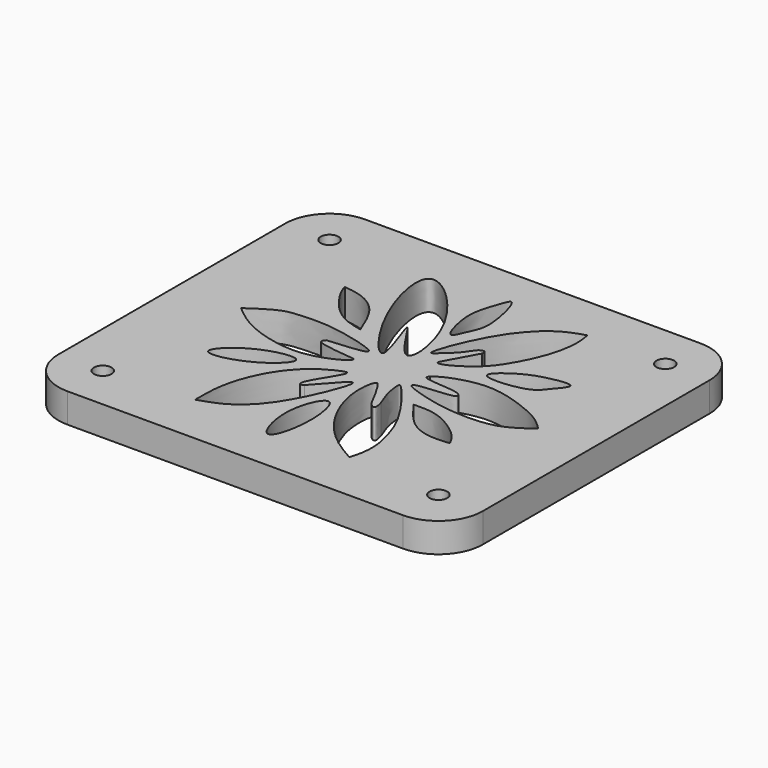
from build123d import *

# Parameters (mm, degrees)
F0_R     = 1.5
F1_DEPTH = 5


with BuildPart() as f1:
    # F0 (on Top) → F1 (new body)
    with BuildSketch(Plane.XY):
        with BuildLine():
            ThreePointArc((36.115, 24.13), (33.9065851301, 29.4615851301), (28.575, 31.67))
            Line((28.575, 31.67), (-28.575, 31.67))
            ThreePointArc((-28.575, 31.67), (-33.9065851301, 29.4615851301), (-36.115, 24.13))
            Line((-36.115, 24.13), (-36.115, -24.13))
            ThreePointArc((-36.115, -24.13), (-33.9065851301, -29.4615851301), (-28.575, -31.67))
            Line((-28.575, -31.67), (28.575, -31.67))
            ThreePointArc((28.575, -31.67), (33.9065851301, -29.4615851301), (36.115, -24.13))
            Line((36.115, -24.13), (36.115, 24.13))
        make_face()
        with Locations((-28.575, -24.13)):
            Circle(F0_R, mode=Mode.SUBTRACT)
        with BuildLine():
            add(Edge.make_bspline(
                [(0.333543052, -12.2452741489), (-0.6181356631, -12.1674242783), (-3.2376800627, -17.906042952), (0.117558052, -27.9051417086), (2.5795510635, -18.3989907918), (1.2988482223, -12.3242387), (0.333543052, -12.2452741489)],
                knots=[0, 0, 0, 0, 0.2438867486, 0.5028377842, 0.7526211991, 1, 1, 1, 1], degree=3))
        make_face(mode=Mode.SUBTRACT)
        with BuildLine():
            add(Edge.make_bspline(
                [(-21.1746506393, -10.9795937315), (-21.613699856, -10.1671618246), (-17.1712523155, -5.7464608987), (-7.8180209375, -4.3226729466), (-14.4182232131, -10.6034780406), (-20.7262114294, -11.8094012077), (-21.1746506393, -10.9795937315)],
                knots=[0, 0, 0, 0, 0.2486740351, 0.5006412265, 0.7460075463, 1, 1, 1, 1], degree=3))
        make_face(mode=Mode.SUBTRACT)
        with BuildLine():
            add(Edge.make_bspline(
                [(-5.0756623968, -10.5988653377), (-5.2577181393, -10.7073630796), (-5.642826282, -10.9368717089), (-6.1923318188, -9.9094429927), (-2.7657664024, -5.1310704405), (-2.7833310895, -4.0751048306), (-3.9024818521, -4.3815378676), (-7.1981436282, -6.0083500252), (-10.3781978136, -9.4771054808), (-12.5229932046, -13.5752709141), (-13.80898816, -18.2307414327), (-13.7944271118, -21.3795083554), (-13.7871671468, -22.9494459927)],
                knots=[0, 0, 0, 0, 0.0450702265, 0.0953384441, 0.2446229803, 0.2957013248, 0.3504361644, 0.4673578532, 0.6016826013, 0.733265105, 0.8670091623, 1, 1, 1, 1], degree=3))
            add(Edge.make_bspline(
                [(-5.0756623968, -10.5988653377), (-4.8462647036, -10.3572162044), (-4.2312932004, -9.7094009251), (-2.0085957565, -7.1919014479), (-1.0768945205, -6.170905837), (-0.4696337191, -5.9250899133), (-0.1977547793, -6.698577921), (-2.3773109506, -12.521874025), (-5.720961332, -18.2974252328), (-9.6428330177, -21.611303286), (-12.4383300324, -22.5139269223), (-13.7871671468, -22.9494459927)],
                knots=[0, 0, 0, 0, 0.0738383886, 0.1979466497, 0.2786392884, 0.3236347579, 0.3686302183, 0.5318112382, 0.7126430187, 0.8613492486, 1, 1, 1, 1], degree=3))
        make_face(mode=Mode.SUBTRACT)
        with Locations((28.575, -24.13)):
            Circle(F0_R, mode=Mode.SUBTRACT)
        with BuildLine():
            add(Edge.make_bspline(
                [(6.0133337975, -8.138728328), (6.129544282, -8.5372284858), (6.3215191571, -9.1955341307), (6.2562823124, -9.9620428614), (5.2046432481, -9.4140944167), (4.4241521729, -7.5804944488), (2.5732265524, -4.4318886462), (2.0689149179, -4.0108581564), (1.4716854141, -4.7219859454), (1.0643348533, -9.5200379837), (4.1473132697, -16.5787921184), (8.6805940401, -20.8859335437), (11.3375767627, -22.3835437659), (12.5464471057, -23.064924404)],
                knots=[0, 0, 0, 0, 0.0637536678, 0.1053184009, 0.1567915868, 0.2445402074, 0.3573961592, 0.3966316106, 0.4415217405, 0.5656304246, 0.7312758944, 0.8777362762, 1, 1, 1, 1], degree=3))
            add(Edge.make_bspline(
                [(6.0133337975, -8.138728328), (5.6037326918, -7.10418534), (4.872579402, -5.2574874219), (4.7061354484, -3.2909696242), (4.6849325541, -2.3764711381), (6.4287773023, -4.1055197441), (11.0830030101, -10.3886982856), (12.4719933841, -14.6701775934), (13.3924049888, -18.1952929219), (13.0930132524, -21.3369269539), (12.7109500777, -22.544839657), (12.5464471057, -23.064924404)],
                knots=[0, 0, 0, 0, 0.1181806496, 0.2109568786, 0.2558009589, 0.340904931, 0.5293559488, 0.6726864925, 0.7967601898, 0.9124920824, 1, 1, 1, 1], degree=3))
        make_face(mode=Mode.SUBTRACT)
        with BuildLine():
            add(Edge.make_bspline(
                [(9.7733214498, -5.9162843972), (11.0070129442, -7.6201735906), (13.2371446101, -10.7002768923), (17.2010639836, -11.9167851935), (19.4234498907, -11.6999754646), (20.4867403954, -11.5962438285)],
                knots=[0, 0, 0, 0, 0.3923691572, 0.7092817663, 1, 1, 1, 1], degree=3))
            add(Edge.make_bspline(
                [(9.7733214498, -5.9162843972), (11.1981300555, -5.8743183546), (14.2593591381, -5.7841534934), (19.3579886912, -9.3087817797), (20.1691722665, -10.9526788708), (20.4867403954, -11.5962438285)],
                knots=[0, 0, 0, 0, 0.3463298216, 0.7440963774, 1, 1, 1, 1], degree=3))
        make_face(mode=Mode.SUBTRACT)
        with BuildLine():
            add(Edge.make_bspline(
                [(6.4137466252, 1.7611274961), (6.3227869558, 1.6265492616), (6.1384398975, 1.3538008905), (6.5043512979, 0.732074462), (12.3352770158, 0.7608110347), (12.7990750221, -0.247921932), (12.522594942, -0.9349841128), (6.6789464949, -1.0657524449), (5.9196342462, -1.7582641438), (7.0259299333, -2.4974693775), (12.7280714027, -4.1308715446), (17.9054650289, -4.4573440784), (22.8927572674, -3.9868154827), (25.6372813296, -1.9961940345), (27.0286872983, -0.9869980859)],
                knots=[0, 0, 0, 0, 0.0354381853, 0.0718222182, 0.1994521456, 0.2472296583, 0.2838417135, 0.4129381786, 0.4567746958, 0.5071211941, 0.636911116, 0.7632294992, 0.8799631993, 1, 1, 1, 1], degree=3))
            add(Edge.make_bspline(
                [(6.4137466252, 1.7611274961), (6.8532770787, 2.0869389393), (7.9441531184, 2.8955743681), (11.8904275556, 4.2161827034), (16.4156491896, 4.4424983151), (22.3996659396, 2.372393873), (25.30911761, 0.7419187212), (26.4909501593, -0.4463379523), (27.0286872983, -0.9869980859)],
                knots=[0, 0, 0, 0, 0.1185503448, 0.2942315591, 0.4850661686, 0.7052105913, 0.8658699886, 1, 1, 1, 1], degree=3))
        make_face(mode=Mode.SUBTRACT)
        with BuildLine():
            add(Edge.make_bspline(
                [(-10.8601963148, 1.3003193308), (-9.5344524315, 1.4076075833), (-7.1966999706, 1.596794484), (-4.7592766199, 1.8952828256), (-4.4014865979, 2.3625696777), (-5.0404619583, 3.0106856747), (-12.4551400405, 5.085745042), (-17.776709358, 4.7519341091), (-21.0363351625, 4.5178890955), (-23.8714367272, 2.5615533563), (-25.4907459021, 1.4441639651)],
                knots=[0, 0, 0, 0, 0.1408859578, 0.2484314646, 0.2912249859, 0.3451010174, 0.5404471398, 0.7109770566, 0.8349203747, 1, 1, 1, 1], degree=3))
            add(Edge.make_bspline(
                [(-10.8601963148, 1.3003193308), (-11.0236610491, 1.0877442378), (-11.3631711323, 0.6462337936), (-10.4803068812, -0.0020852545), (-5.6819113736, -0.5130401146), (-4.3676146598, -0.602479094), (-5.0778749215, -1.6474528479), (-9.533894371, -3.7298467328), (-15.0803793111, -3.8266585095), (-21.6756125984, -1.763559594), (-24.2873070205, 0.4323253358), (-25.4907459021, 1.4441639651)],
                knots=[0, 0, 0, 0, 0.0543549305, 0.1128931389, 0.2612481045, 0.3257137631, 0.3819997171, 0.5246320263, 0.683508967, 0.8541645563, 1, 1, 1, 1], degree=3))
        make_face(mode=Mode.SUBTRACT)
        with BuildLine():
            add(Edge.make_bspline(
                [(-9.2456527054, 6.5147201531), (-10.017913985, 8.4603841203), (-11.4323049902, 12.0238537478), (-15.1396647886, 14.417834565), (-17.4370931908, 14.6937938807), (-18.5263492167, 14.8246316239)],
                knots=[0, 0, 0, 0, 0.3874250156, 0.7095661426, 1, 1, 1, 1], degree=3))
            add(Edge.make_bspline(
                [(-18.5263492167, 14.8246316239), (-18.4249753151, 14.4386672732), (-18.1453289677, 13.3739600927), (-15.7160898493, 9.6765208102), (-12.6653898969, 7.3117351948), (-10.3585356155, 6.7740922537), (-9.2456527054, 6.5147201531)],
                knots=[0, 0, 0, 0, 0.1667868719, 0.4600921817, 0.7395352672, 1, 1, 1, 1], degree=3))
        make_face(mode=Mode.SUBTRACT)
        with BuildLine():
            add(Edge.make_bspline(
                [(-11.0765816644, 23.7485598773), (-9.1567952799, 24.5896180349), (0.6221929457, 15.248594117), (1.8802307311, -0.660666787), (-7.6157184132, 16.7315736751), (0.4499194545, -2.1545713626), (-10.3378485404, 11.2727373866), (-12.8884627584, 22.9547750129), (-11.0765816644, 23.7485598773)],
                knots=[0, 0, 0, 0, 0.1983037604, 0.3542784635, 0.5004862631, 0.6473719471, 0.8128422843, 1, 1, 1, 1], degree=3))
        make_face(mode=Mode.SUBTRACT)
        with Locations((-28.575, 24.13)):
            Circle(F0_R, mode=Mode.SUBTRACT)
        with BuildLine():
            add(Edge.make_bspline(
                [(7.6872562058, 11.2291779369), (7.5985531683, 11.0621868702), (7.2934998978, 10.4878979571), (4.8388283711, 6.1221462564), (4.5818988861, 5.4332866985), (5.3953580293, 5.3030914948), (7.8898301993, 6.6090419423), (10.5530972035, 8.6530951391), (12.8120146609, 11.9418460709), (15.1146400498, 16.8216364634), (15.8336237066, 21.4933538379), (15.4960876279, 23.3130455867), (15.3531376272, 24.0837037563)],
                knots=[0, 0, 0, 0, 0.0570318885, 0.1961349307, 0.2413618057, 0.2860814014, 0.3878692552, 0.5023890458, 0.624604578, 0.7691001208, 0.9022115265, 1, 1, 1, 1], degree=3))
            add(Edge.make_bspline(
                [(7.6872562058, 11.2291779369), (7.711345928, 11.5179563295), (7.761955989, 12.1246504199), (6.4711011119, 11.7736923104), (5.7087188067, 9.8815546171), (2.8894457633, 7.455393032), (2.2663875566, 7.0036146731), (2.0876916505, 8.1813501274), (5.166069162, 15.8427202521), (9.0584851152, 20.7806167625), (12.2799785711, 23.1029891393), (14.3582595535, 23.7662156435), (15.3531376272, 24.0837037563)],
                knots=[0, 0, 0, 0, 0.0525809783, 0.1104672982, 0.2034946343, 0.3260687168, 0.3699358975, 0.421118343, 0.6010717958, 0.7659536494, 0.8879614526, 1, 1, 1, 1], degree=3))
        make_face(mode=Mode.SUBTRACT)
        with BuildLine():
            add(Edge.make_bspline(
                [(12.1184894815, 6.7417412065), (11.745772205, 7.3291887122), (14.9746206449, 9.8796589668), (18.3011993147, 11.1757858266), (23.9370644726, 12.1235420066), (20.9874464748, 8.8076555664), (19.444791551, 6.4435349555), (12.6230680676, 5.9464643289), (12.1184894815, 6.7417412065)],
                knots=[0, 0, 0, 0, 0.1562592244, 0.3385476026, 0.4985249333, 0.6317732539, 0.7884588038, 1, 1, 1, 1], degree=3))
        make_face(mode=Mode.SUBTRACT)
        with BuildLine():
            add(Edge.make_bspline(
                [(1.4889391605, 25.2557378262), (2.1475380765, 24.9724359599), (3.9407742106, 17.9193393229), (2.4255199433, 15.3826445828), (1.0334767872, 11.417489236), (-0.5940846758, 16.8787501218), (-0.6004842639, 20.4236824832), (0.6044475007, 23.6716259708), (1.1861386501, 25.3859900141), (1.4889391605, 25.2557378262)],
                knots=[0, 0, 0, 0, 0.1989228656, 0.3475264918, 0.462395125, 0.6105673493, 0.7636018099, 0.9085422952, 1, 1, 1, 1], degree=3))
        make_face(mode=Mode.SUBTRACT)
        with Locations((28.575, 24.13)):
            Circle(F0_R, mode=Mode.SUBTRACT)
    extrude(amount=F1_DEPTH)


solid = f1.part
